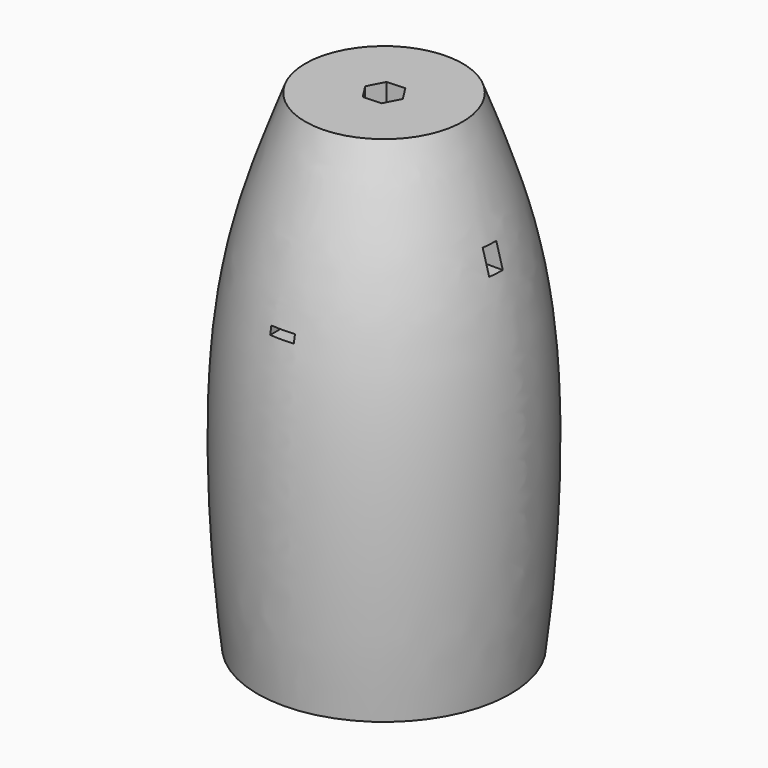
from build123d import *

# Parameters (mm, degrees)
F3_DEPTH  = 5
F5_DEPTH  = 15
F6_W      = 2
F6_H      = 3
F7_DEPTH  = 20.5
F8_W      = 3
F8_H      = 1
F9_DEPTH  = 17.5068136575
F10_R     = 0.3
F11_R     = 0.1
F12_R     = 0.1
F13_W     = 100
F13_H     = 100
F14_DEPTH = 46.1004730675


with BuildPart() as f2:
    # F1 (on Front) → F2 (revolve)
    with BuildSketch(Plane.XZ):
        with BuildLine():
            Line((-2, 62), (-10, 62))
            add(Edge.make_bspline(
                [(-10, 62), (-11.8174263966, 57.1809415466), (-15.8594861297, 46.4373198499), (-18.6273544316, 24.5459471202), (-15.0414654734, -19.3469968059), (-5.4834802074, -38.7438846901), (-1.25, -47.0509425635)],
                knots=[0, 0, 0, 0, 0.1886807773, 0.4119593541, 0.7294893705, 0.9757699691, 0.9757699691, 0.9757699691, 0.9757699691], degree=3))
            Line((-1.25, -47.0509425635), (-1.25, -43.0509425635))
            Line((-1.25, -43.0509425635), (-1.75, -43.0509425635))
            Line((-1.75, -43.0509425635), (-1.75, -19.5))
            Line((-1.75, -19.5), (0, -19.5))
            Line((0, -19.5), (0, 47))
            Line((0, 47), (0, 50))
            Line((0, 50), (-2, 50))
            Line((-2, 50), (-2, 62))
        make_face()
    revolve(axis=Axis((0, 0, 54.5), (0, 0, 1)))

    # F0 (on Front) → F3 (cut, symmetric)
    with BuildSketch(Plane.XZ):
        Polygon((-10.75, -19.5), (10.75, -19.5), (10.75, 44.5), (9, 44.5), (9, 50.5), (-9, 50.5), (-9, 44.5), (-10.75, 44.5), align=None)
    extrude(amount=F3_DEPTH, both=True, mode=Mode.SUBTRACT)

    # F4 (on face) → F5 (cut)
    with BuildSketch(Plane.XY.offset(62)):
        Polygon((1.2421649551, -1.9468845774), (2.3071339798, 0.1023041181), (1.0649690247, 2.0491886955), (-1.2421649551, 1.9468845774), (-2.3071339798, -0.1023041181), (-1.0649690247, -2.0491886955), align=None)
    extrude(amount=-F5_DEPTH, mode=Mode.SUBTRACT)

    # F6 (on Right) → F7 (cut, symmetric)
    with BuildSketch(Plane.YZ):
        with Locations((-0.8976958819, 48.5)):
            Rectangle(F6_W, F6_H)
    extrude(amount=F7_DEPTH, both=True, mode=Mode.SUBTRACT)

    # F8 (on Front) → F9 (cut, through all)
    with BuildSketch(Plane.XZ):
        with Locations((0, 41.5)):
            Rectangle(F8_W, F8_H)
    extrude(amount=F9_DEPTH, mode=Mode.SUBTRACT)

    # F10
    f10_edges = [f2.edges().sort_by_distance(p)[0] for p in [
        (1.25, 0, -47.050943),
    ]]
    fillet(f10_edges, radius=F10_R)

    # F11
    f11_edges = [f2.edges().sort_by_distance(p)[0] for p in [
        (1.25, 0, -43.050943),
    ]]
    fillet(f11_edges, radius=F11_R)

    # F12
    f12_edges = [f2.edges().sort_by_distance(p)[0] for p in [
        (1.75, 0, -43.050943),
    ]]
    fillet(f12_edges, radius=F12_R)

    # F13 (on Top) → F14 (cut, through all)
    with BuildSketch(Plane.XY):
        Rectangle(F13_W, F13_H)
    extrude(amount=-F14_DEPTH, mode=Mode.SUBTRACT)


solid = f2.part
